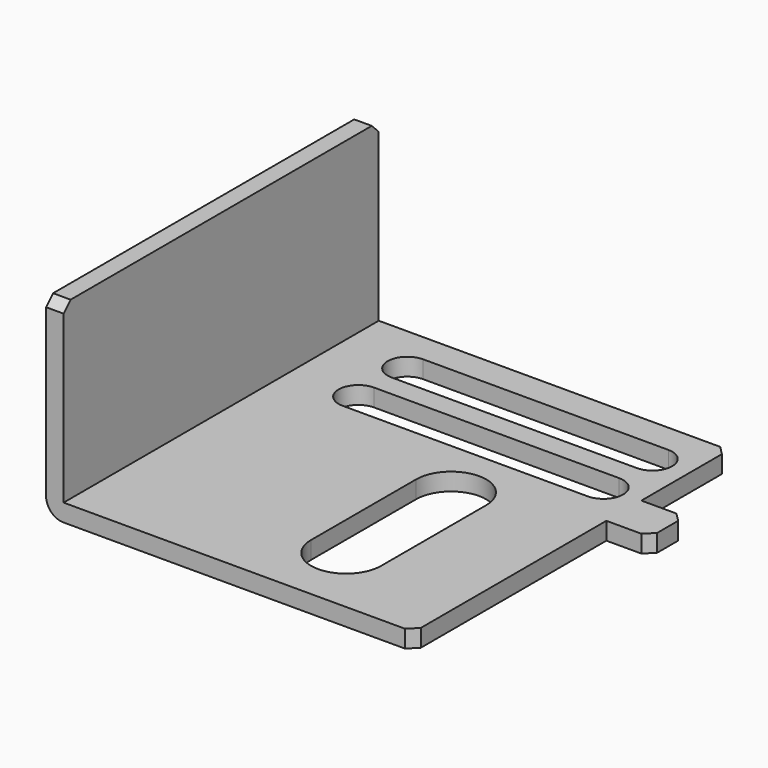
from build123d import *

# Parameters (mm, degrees)
F1_DEPTH      = 30
F1_DEPTH_BACK = 15
F3_DEPTH      = 25
F4_W          = 5
F4_H          = 5
F5_DEPTH      = 2
F6_SIZE2      = 1
F6_SIZE       = 1


with BuildPart() as f1:
    # F0 (on Front) → F1 (new body, two sides)
    with BuildSketch(Plane.XZ) as f1_sk:
        with BuildLine():
            Line((0, -1), (40, -1))
            Line((40, -1), (40, 1))
            Line((40, 1), (0, 1))
            Line((0, 1), (0, 21))
            Line((0, 21), (-2, 21))
            Line((-2, 21), (-2, 1))
            ThreePointArc((-2, 1), (-1.414214, -0.414214), (0, -1))
        make_face()
    extrude(amount=F1_DEPTH)
    extrude(f1_sk.sketch, amount=-F1_DEPTH_BACK)

    # F2 (on face) → F3 (cut)
    with BuildSketch(Plane.XY.offset(1)):
        with BuildLine():
            Line((35.75, 11.651385), (7.75, 11.651385))
            ThreePointArc((7.75, 11.651385), (5.5, 9.401385), (7.75, 7.151385))
            Line((7.75, 7.151385), (35.75, 7.151385))
            ThreePointArc((35.75, 7.151385), (38, 9.401385), (35.75, 11.651385))
        make_face()
        with BuildLine():
            Line((21.75, -6.848615), (21.75, -21.848615))
            ThreePointArc((21.75, -21.848615), (25.75, -25.848615), (29.75, -21.848615))
            Line((29.75, -21.848615), (29.75, -6.848615))
            ThreePointArc((29.75, -6.848615), (25.75, -2.848615), (21.75, -6.848615))
        make_face()
        with BuildLine():
            Line((35.75, 4.651385), (7.75, 4.651385))
            ThreePointArc((7.75, 4.651385), (5.5, 2.401385), (7.75, 0.151385))
            Line((7.75, 0.151385), (35.75, 0.151385))
            ThreePointArc((35.75, 0.151385), (38, 2.401385), (35.75, 4.651385))
        make_face()
    extrude(amount=-F3_DEPTH, mode=Mode.SUBTRACT)

    # F4 (on face) → F5 (join, through all)
    with BuildSketch(Plane.XY.offset(1)):
        with Locations((42.5, 0)):
            Rectangle(F4_W, F4_H)
    extrude(amount=-F5_DEPTH)

    # F6
    f6_edges = [f1.edges().sort_by_distance(p)[0] for p in [
        (-1, 15, 21),
        (-1, -30, 21),
        (40, -30, 0),
        (40, 15, 0),
        (45, 2.5, 0),
        (45, -2.5, 0),
    ]]
    chamfer(f6_edges, length=F6_SIZE, length2=F6_SIZE2)


solid = f1.part
